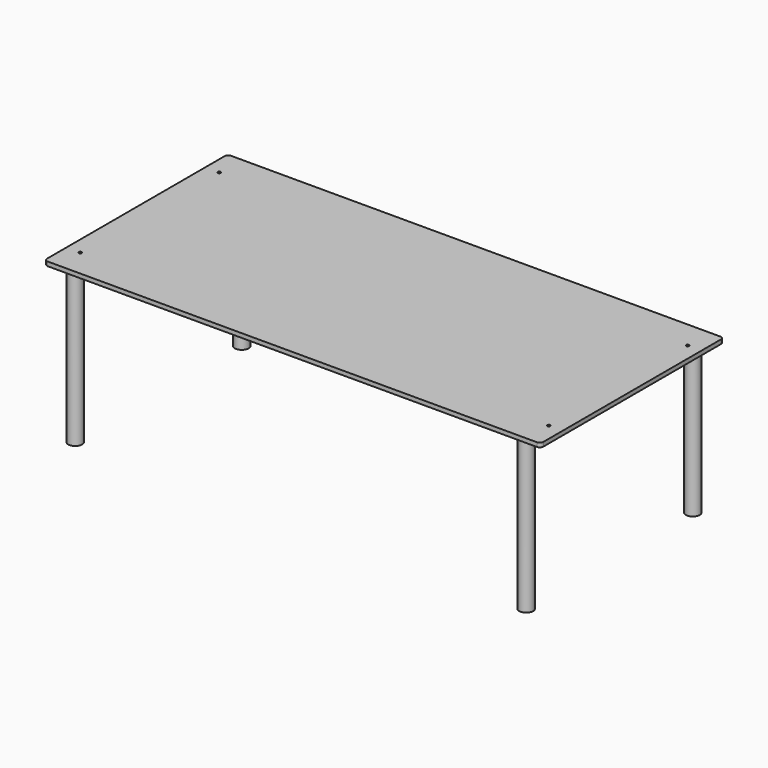
from build123d import *

# Parameters (mm, degrees)
F0_R     = 2.15
F1_DEPTH = 6
F2_R     = 10
F3_DEPTH = 220
F5_D     = 5
F5_DEPTH = 15
F5_TIP   = 1.5021515476
F6_D     = 3.3
F6_DEPTH = 14.1
F6_TIP   = 0.9914200214


with BuildPart() as f1:
    # F0 (on Top) → F1 (new body)
    with BuildSketch(Plane.XY):
        with BuildLine():
            ThreePointArc((357.5, 160), (356.0355339059, 163.5355339059), (352.5, 165))
            Line((352.5, 165), (-352.5, 165))
            ThreePointArc((-352.5, 165), (-356.0355339059, 163.5355339059), (-357.5, 160))
            Line((-357.5, 160), (-357.5, -160))
            ThreePointArc((-357.5, -160), (-356.0355339059, -163.5355339059), (-352.5, -165))
            Line((-352.5, -165), (352.5, -165))
            ThreePointArc((352.5, -165), (356.0355339059, -163.5355339059), (357.5, -160))
            Line((357.5, -160), (357.5, 160))
        make_face()
        with Locations((-337.5, -125)):
            Circle(F0_R, mode=Mode.SUBTRACT)
        with Locations((337.5, -125)):
            Circle(F0_R, mode=Mode.SUBTRACT)
        with Locations((-337.5, 125)):
            Circle(F0_R, mode=Mode.SUBTRACT)
        with Locations((337.5, 125)):
            Circle(F0_R, mode=Mode.SUBTRACT)
    extrude(amount=-F1_DEPTH)


with BuildPart() as f3:
    # F2 (on face) → F3 (new body)
    with BuildSketch(Plane(origin=(0, 0, -6), x_dir=(1, 0, 0), z_dir=(0, 0, -1))):
        with Locations((-324.9683082104, 150.0219404697)):
            Circle(F2_R)
    extrude(amount=F3_DEPTH)

    # F5
    with Locations(Plane(origin=(0, 0, -226), x_dir=(1, 0, 0), z_dir=(0, 0, -1))):
        with Locations((-324.9683082104, 150.0219404697)):
            Hole(F5_D / 2, depth=F5_DEPTH)
            with Locations((0, 0, -(F5_DEPTH + F5_TIP / 2))):  # 118° drill point
                Cone(0, F5_D / 2, F5_TIP, mode=Mode.SUBTRACT)

    # F6
    with Locations(Plane.XY.offset(-6)):
        with Locations((-324.9683082104, -150.0219404697)):
            Hole(F6_D / 2, depth=F6_DEPTH)
            with Locations((0, 0, -(F6_DEPTH + F6_TIP / 2))):  # 118° drill point
                Cone(0, F6_D / 2, F6_TIP, mode=Mode.SUBTRACT)


with BuildPart() as f7_1:
    # F7: instance of F3
    add(f3.part.mirror(Plane.YZ))


with BuildPart() as f8_1:
    # F8: instance of F3
    add(f3.part.mirror(Plane.XZ))


with BuildPart() as f8_2:
    # F8: instance of F7_1
    add(f7_1.part.mirror(Plane.XZ))


solid = Compound([f1.part, f3.part, f7_1.part, f8_1.part, f8_2.part])
